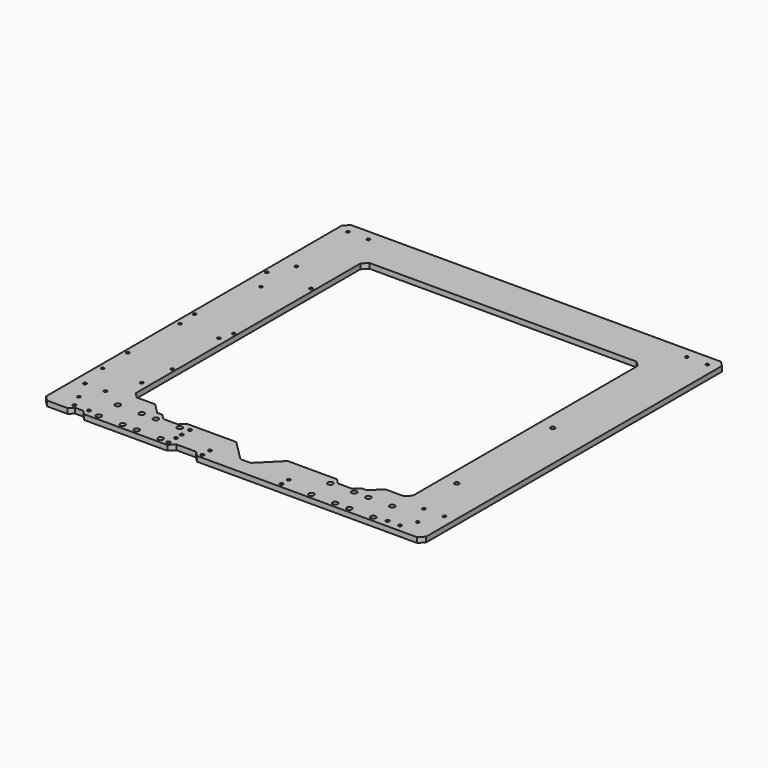
from build123d import *

# Parameters (mm, degrees)
PAD_DEPTH       = 5
SKETCH001_R     = 1.5
SKETCH001_R_2   = 1.6
SKETCH001_R_3   = 2.1
POCKET_DEPTH    = 5.001
SKETCH002_R     = 2.55
POCKET001_DEPTH = 5.001


with BuildPart() as part:
    # Sketch → Pad (new body)
    with BuildSketch(Plane.XY):
        Polygon((-180, 375), (180, 375), (185, 370), (185, 10), (180, 5), (-34, 5), (-39, 10), (-58, 10), (-63, 5), (-144, 5), (-148, 9), (-156, 9), (-160, 5), (-180, 5), (-185, 10), (-185, 370), align=None)
        Polygon((-135, 56.5), (-135, 330), (-130, 335), (130, 335), (135, 330), (135, 56.5), (130, 51.5), (112, 51.5), (102, 41.5), (97, 41.5), (92, 36.5), (78, 36.5), (73, 41.5), (25, 41.5), (5, 21.5), (-5, 21.5), (-25, 41.5), (-73, 41.5), (-78, 36.5), (-92, 36.5), (-97, 41.5), (-102, 41.5), (-112, 51.5), (-130, 51.5), align=None, mode=Mode.SUBTRACT)
    extrude(amount=PAD_DEPTH)

    # Sketch001 → Pocket (cut, through all)
    with BuildSketch(Plane.XY.offset(5)):
        with Locations((-175, 364.8)):
            Circle(SKETCH001_R)
        with Locations((-155, 364.8)):
            Circle(SKETCH001_R)
        with Locations((155, 364.8)):
            Circle(SKETCH001_R)
        with Locations((175, 364.8)):
            Circle(SKETCH001_R)
        with Locations((-175, 44.8)):
            Circle(SKETCH001_R)
        with Locations((-155, 44.8)):
            Circle(SKETCH001_R)
        with Locations((155, 44.8)):
            Circle(SKETCH001_R)
        with Locations((175, 44.8)):
            Circle(SKETCH001_R)
        with Locations((-32, 18)):
            Circle(SKETCH001_R_2)
        with Locations((-32, 9)):
            Circle(SKETCH001_R_2)
        with Locations((-65, 18)):
            Circle(SKETCH001_R_2)
        with Locations((-65, 9)):
            Circle(SKETCH001_R_2)
        with Locations((45, 18)):
            Circle(SKETCH001_R_2)
        with Locations((45, 9)):
            Circle(SKETCH001_R_2)
        with Locations((-65, 25)):
            Circle(SKETCH001_R_2)
        with Locations((-65, 35)):
            Circle(SKETCH001_R_2)
        with Locations((-165, 24.8)):
            Circle(SKETCH001_R)
        with Locations((-159, 12)):
            Circle(SKETCH001_R_2)
        with Locations((-145, 12)):
            Circle(SKETCH001_R_2)
        with Locations((165, 24.8)):
            Circle(SKETCH001_R)
        with Locations((146, 12)):
            Circle(SKETCH001_R_2)
        with Locations((158, 12)):
            Circle(SKETCH001_R_2)
        with Locations((-142.1, 72.8)):
            Circle(SKETCH001_R)
        with Locations((-138, 104.8)):
            Circle(SKETCH001_R)
        with Locations((-180.1, 72.8)):
            Circle(SKETCH001_R)
        with Locations((-181.3, 186.1)):
            Circle(SKETCH001_R)
        with Locations((-180.1, 166.8)):
            Circle(SKETCH001_R)
        with Locations((-181.3, 104.8)):
            Circle(SKETCH001_R)
        with Locations((-142.1, 166.8)):
            Circle(SKETCH001_R)
        with Locations((-138, 179.7)):
            Circle(SKETCH001_R)
        with Locations((-170, 252.8)):
            Circle(SKETCH001_R)
        with Locations((-181.5, 274.3)):
            Circle(SKETCH001_R)
        with Locations((-170, 295.8)):
            Circle(SKETCH001_R)
        with Locations((-138.5, 274.3)):
            Circle(SKETCH001_R)
        with Locations((148.4, 210)):
            Circle(SKETCH001_R_3)
        with Locations((148.4, 93)):
            Circle(SKETCH001_R_3)
    extrude(amount=-POCKET_DEPTH, mode=Mode.SUBTRACT)

    # Sketch002 → Pocket001 (cut, through all)
    with BuildSketch(Plane.XY.offset(5)):
        with Locations((-133.6, 33.1)):
            Circle(SKETCH002_R)
        with Locations((-110.4, 33.1)):
            Circle(SKETCH002_R)
        with Locations((-96.6, 33.1)):
            Circle(SKETCH002_R)
        with Locations((-73.4, 33.1)):
            Circle(SKETCH002_R)
        with Locations((-73.4, 9.9)):
            Circle(SKETCH002_R)
        with Locations((-96.6, 9.9)):
            Circle(SKETCH002_R)
        with Locations((-110.4, 9.9)):
            Circle(SKETCH002_R)
        with Locations((-133.6, 9.9)):
            Circle(SKETCH002_R)
        with Locations((73.4, 33.1)):
            Circle(SKETCH002_R)
        with Locations((96.6, 33.1)):
            Circle(SKETCH002_R)
        with Locations((110.4, 33.1)):
            Circle(SKETCH002_R)
        with Locations((133.6, 33.1)):
            Circle(SKETCH002_R)
        with Locations((133.6, 9.9)):
            Circle(SKETCH002_R)
        with Locations((110.4, 9.9)):
            Circle(SKETCH002_R)
        with Locations((96.6, 9.9)):
            Circle(SKETCH002_R)
        with Locations((73.4, 9.9)):
            Circle(SKETCH002_R)
    extrude(amount=-POCKET001_DEPTH, mode=Mode.SUBTRACT)


solid = part.part
